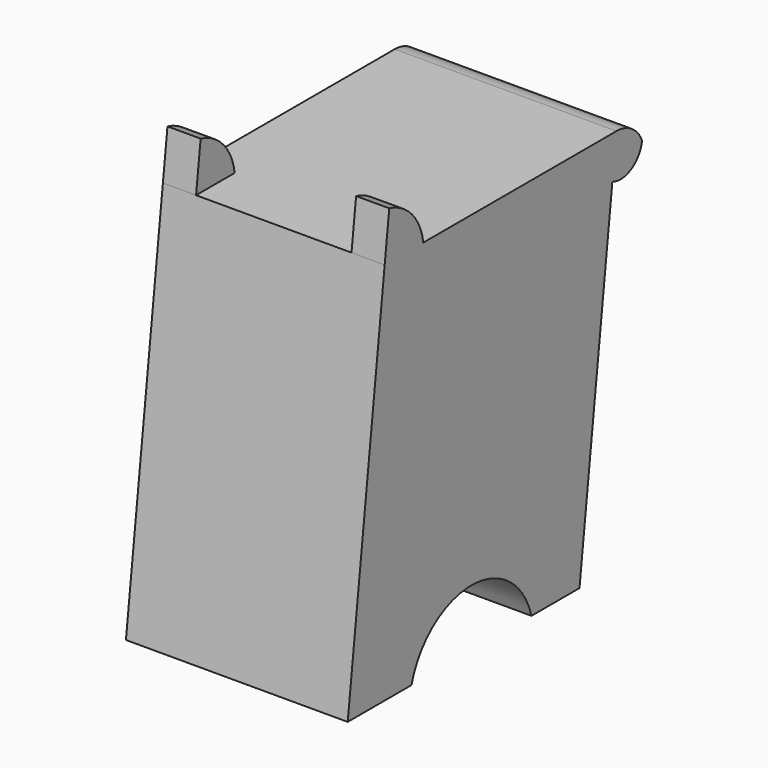
from build123d import *

# Parameters (mm, degrees)
F1_DEPTH = 54.356
F2_DEPTH = 8.128
F3_START = 38.1
F3_DEPTH = 8.128


with BuildPart() as f1:
    # F0 (on Right) → F1 (new body)
    with BuildSketch(Plane.YZ):
        with BuildLine():
            ThreePointArc((-15.3765147552, 0), (2.9971175827, 14.084579319), (21.3707499206, 0))
            Line((21.3707499206, 0), (36.0901206732, 0))
            Line((36.0901206732, 0), (46.1599725041, 83.5735037118))
            Line((46.1599725041, 83.5735037118), (47.4168173969, 94.0045341849))
            Line((47.4168173969, 94.0045341849), (-11.7700314149, 94.0045341849))
            Line((-11.7700314149, 94.0045341849), (-23.5962346196, 94.0045341849))
            Line((-23.5962346196, 94.0045341849), (-34.9229313433, 0))
            Line((-34.9229313433, 0), (-15.3765147552, 0))
        make_face()
        with BuildLine():
            Line((47.4168173969, 94.0045341849), (46.1599725041, 83.5735037118))
            ThreePointArc((46.1599725041, 83.5735037118), (51.9737480075, 83.9546377095), (55.2620962262, 88.7642130256))
            ThreePointArc((55.2620962262, 88.7642130256), (52.1340561486, 92.5739673663), (47.4168173969, 94.0045341849))
        make_face()
    extrude(amount=F1_DEPTH)

    # F0 (on Right) → F2 (join)
    with BuildSketch(Plane.YZ):
        with BuildLine():
            Line((-22.1934446874, 105.6468176636), (-23.5962346196, 94.0045341849))
            Line((-23.5962346196, 94.0045341849), (-11.7700314149, 94.0045341849))
            ThreePointArc((-11.7700314149, 94.0045341849), (-15.1754299061, 101.4428755336), (-22.1934446874, 105.6468176636))
        make_face()
    extrude(amount=F2_DEPTH)

    # F2_face (on face) → F3 (join)
    with BuildSketch(Plane(origin=(8.128, -18.3884037898, 98.5907501288), x_dir=(0, 1, 0), z_dir=(1, 0, 0)).offset(F3_START)):
        with BuildLine():
            ThreePointArc((6.6183723749, -4.5862159439), (3.2129738836, 2.8521254048), (-3.8050408977, 7.0560675348))
            Line((-3.8050408977, 7.0560675348), (-5.2078308298, -4.5862159439))
            Line((-5.2078308298, -4.5862159439), (6.6183723749, -4.5862159439))
        make_face()
    extrude(amount=F3_DEPTH)


solid = f1.part
